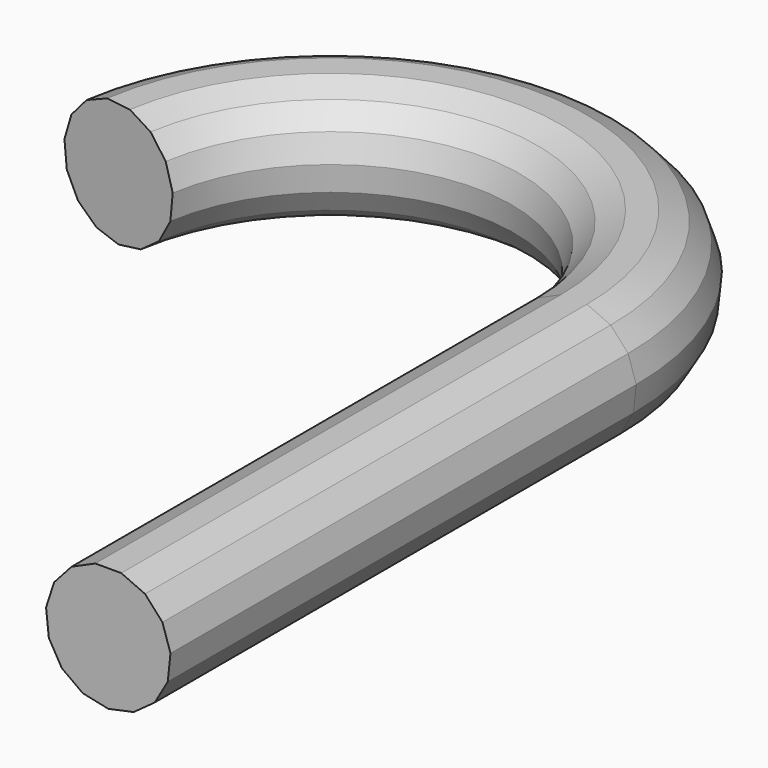
from build123d import *


with BuildPart() as f2:
    # F2: sweep along a path in F0
    with BuildLine(Plane.XY) as f2_path:
        Line((0, 0), (0, 34.495205))
        ThreePointArc((0, 34.495205), (-13.355734, 48.882495), (-28.695127, 36.632076))
    # F1 (on Front) → F2 (sweep)
    with BuildSketch(Plane.XZ):
        Polygon((0.770532, 3.625068), (-0.770532, 3.625068), (-2.178364, 2.998261), (-3.209537, 1.853027), (-3.685752, 0.387388), (-3.524667, -1.145234), (-2.754135, -2.479835), (-1.507388, -3.385649), (0, -3.706055), (1.507388, -3.385649), (2.754135, -2.479835), (3.524667, -1.145234), (3.685752, 0.387388), (3.209537, 1.853027), (2.178364, 2.998261), align=None)
    sweep(path=f2_path.line)


solid = f2.part
